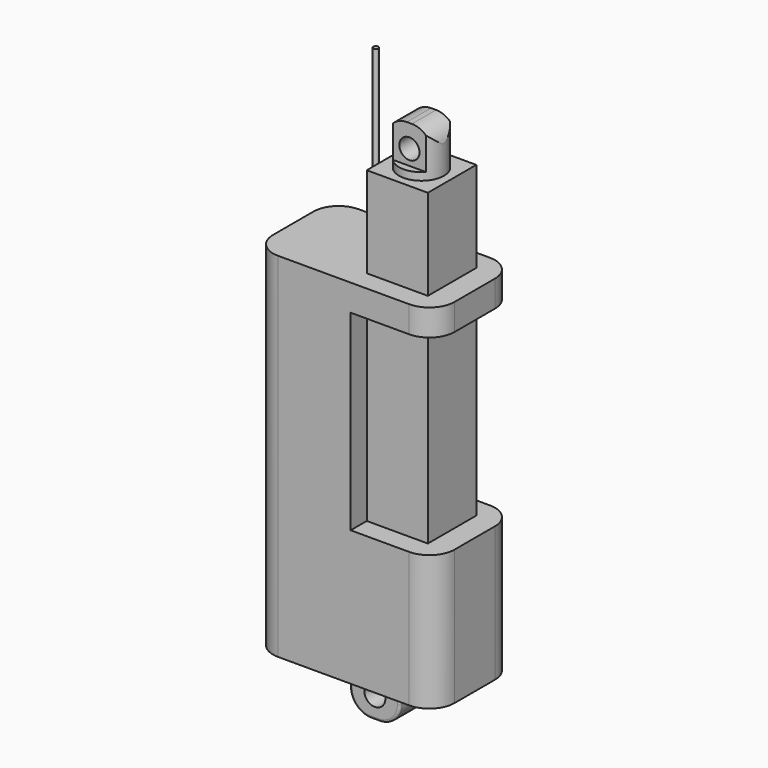
from build123d import *

# Parameters (mm, degrees)
F1_DEPTH  = 10
F0_R      = 2.09
F2_DEPTH  = 4
F3_DEPTH  = 6
F0_W      = 12.12
F0_H      = 38
F4_DEPTH  = 6
F6_R      = 0.5
F7_DEPTH  = 36
F8_R      = 5
F10_R     = 4.45
F11_DEPTH = 1.5
F0_R_2    = 2
F12_DEPTH = 3
F13_DEPTH = 25
F14_R     = 0.5


with BuildPart() as f1:
    # F0 (on Front) → F1 (new body, symmetric)
    with BuildSketch(Plane.XZ):
        Polygon((-19.38, 0), (-4.98, 0), (0, 0), (4.98, 0), (16.62, 0), (16.62, 26.8), (12.12, 26.8), (0, 26.8), (0, 64.8), (12.12, 64.8), (16.62, 64.8), (16.62, 70.05), (12.12, 70.05), (0, 70.05), (-3, 70.05), (-19.38, 70.05), align=None)
    extrude(amount=F1_DEPTH, both=True)

    # F0 (on Front) → F2 (join, symmetric)
    with BuildSketch(Plane.XZ):
        with BuildLine():
            Line((0, 0), (-4.98, 0))
            Line((-4.98, 0), (-4.98, -4.62))
            ThreePointArc((-4.98, -4.62), (-3.7557063454, -7.5757063454), (-0.8, -8.8))
            Line((-0.8, -8.8), (0.8, -8.8))
            ThreePointArc((0.8, -8.8), (3.7557063454, -7.5757063454), (4.98, -4.62))
            Line((4.98, -4.62), (4.98, 0))
            Line((4.98, 0), (0, 0))
        make_face()
        with Locations((0, -4.4)):
            Circle(F0_R, mode=Mode.SUBTRACT)
    extrude(amount=F2_DEPTH, both=True)

    # F0 (on Front) → F3 (join, symmetric)
    with BuildSketch(Plane.XZ):
        Polygon((0, 88.05), (0, 70.05), (12.12, 70.05), (12.12, 88.05), (10.56, 88.05), (1.56, 88.05), align=None)
    extrude(amount=F3_DEPTH, both=True)

    # F0 (on Front) → F4 (join, symmetric)
    with BuildSketch(Plane.XZ):
        with Locations((6.06, 45.8)):
            Rectangle(F0_W, F0_H)
    extrude(amount=F4_DEPTH, both=True)

    # F6 (on plane+point) → F7 (join)
    with BuildSketch(Plane.XY.offset(70.05)):
        with Locations((-3, 0)):
            Circle(F6_R)
    extrude(amount=F7_DEPTH)

    # F8
    f8_edges = [f1.edges().sort_by_distance(p)[0] for p in [
        (-19.38, 10, 35.025),
        (-19.38, -10, 35.025),
        (16.62, 10, 13.4),
        (16.62, -10, 13.4),
        (16.62, 10, 67.425),
        (16.62, -10, 67.425),
    ]]
    fillet(f8_edges, radius=F8_R)

    # F10 (on offset) → F11 (join)
    with BuildSketch(Plane.XY.offset(88.05)):
        with Locations((6.06, 0)):
            Circle(F10_R)
    extrude(amount=F11_DEPTH)

    # F0 (on Front) → F12 (join, symmetric)
    with BuildSketch(Plane.XZ):
        with BuildLine():
            Line((1.56, 93.05), (1.56, 89.55))
            Line((1.56, 89.55), (10.56, 89.55))
            Line((10.56, 89.55), (10.56, 93.05))
            ThreePointArc((10.56, 93.05), (9.3884271247, 95.8784271247), (6.56, 97.05))
            Line((6.56, 97.05), (5.56, 97.05))
            ThreePointArc((5.56, 97.05), (2.7315728753, 95.8784271247), (1.56, 93.05))
        make_face()
        with Locations((6.06, 92.55)):
            Circle(F0_R_2, mode=Mode.SUBTRACT)
    extrude(amount=F12_DEPTH, both=True)

    # F13 (cut): a face of the model
    f13_faces = [f1.faces().sort_by_distance(p)[0] for p in [
        (0.1705562664, 0, 88.05),
    ]]
    extrude(f13_faces, amount=F13_DEPTH, mode=Mode.SUBTRACT)

    # F14
    f14_edges = [f1.edges().sort_by_distance(p)[0] for p in [
        (4.98, -4, -2.31),
        (4.98, 4, -2.31),
        (-4.98, -4, -2.31),
        (-4.98, 4, -2.31),
    ]]
    fillet(f14_edges, radius=F14_R)


solid = f1.part
